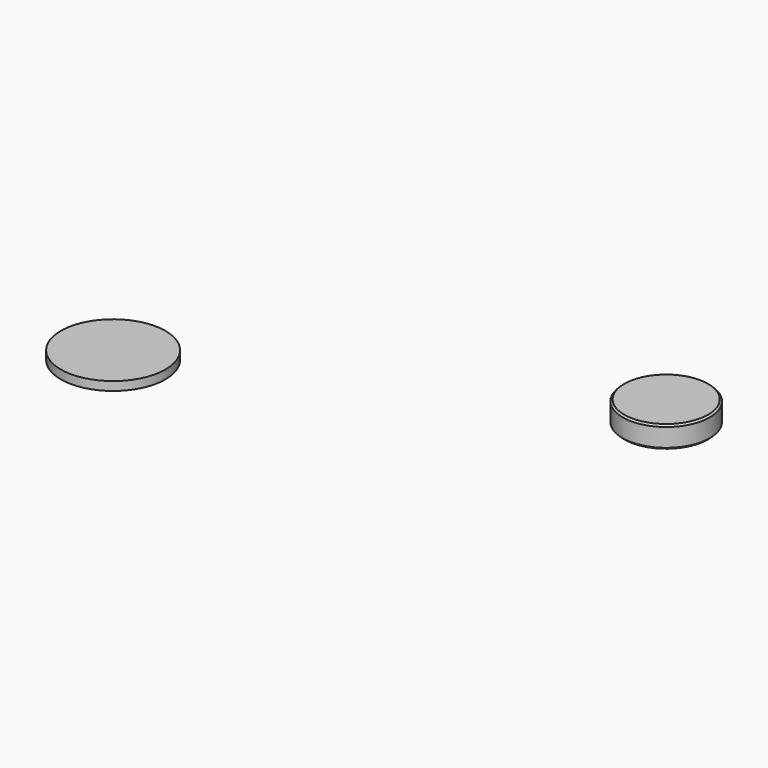
from build123d import *

# Parameters (mm, degrees)
F0_R     = 5
F1_DEPTH = 2.5
F2_SIZE  = 0.2
F3_R     = 6
F4_DEPTH = 1


with BuildPart() as f1:
    # F0 (on Top) → F1 (new body)
    with BuildSketch(Plane.XY):
        Circle(F0_R)
    extrude(amount=F1_DEPTH)

    # F2
    f2_edges = [f1.edges().sort_by_distance(p)[0] for p in [
        (-5, 0, 2.5),
        (-5, 0, 0),
    ]]
    chamfer(f2_edges, length=F2_SIZE)


with BuildPart() as f4:
    # F3 (on Top) → F4 (new body)
    with BuildSketch(Plane.XY):
        with Locations((-46.411626, -21.24751)):
            Circle(F3_R)
    extrude(amount=F4_DEPTH)


solid = Compound([f1.part, f4.part])
